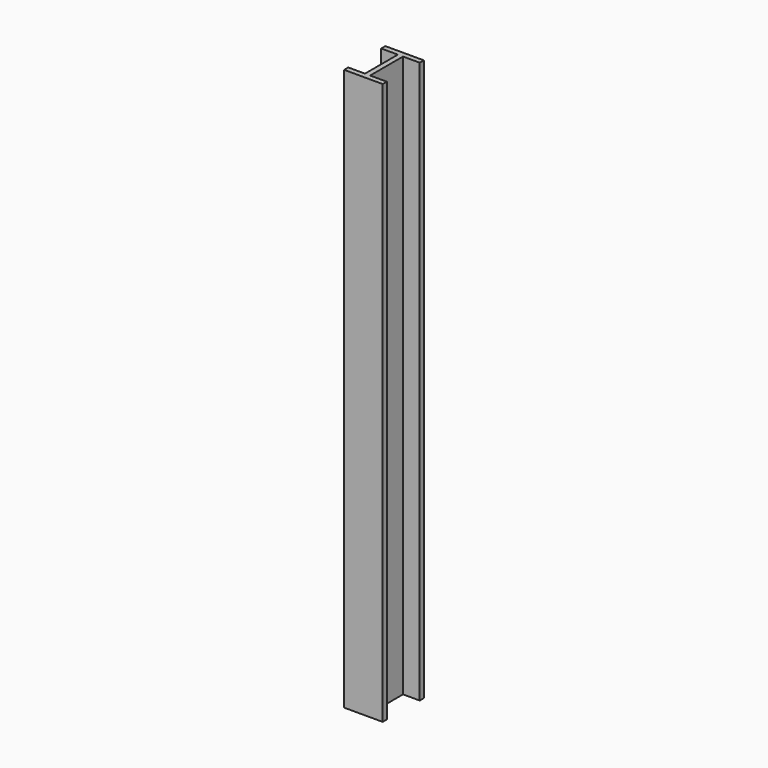
from build123d import *

# Parameters (mm, degrees)
F1_DEPTH = 1092


with BuildPart() as f1:
    # F0 (on Top) → F1 (new body)
    with BuildSketch(Plane.XY):
        Polygon((-37.5, -50), (0, -50), (37.5, -50), (37.5, -40), (5, -40), (5, 0), (5, 40), (37.5, 40), (37.5, 50), (0, 50), (-37.5, 50), (-37.5, 40), (-5, 40), (-5, 0), (-5, -40), (-37.5, -40), align=None)
    extrude(amount=F1_DEPTH)


solid = f1.part
